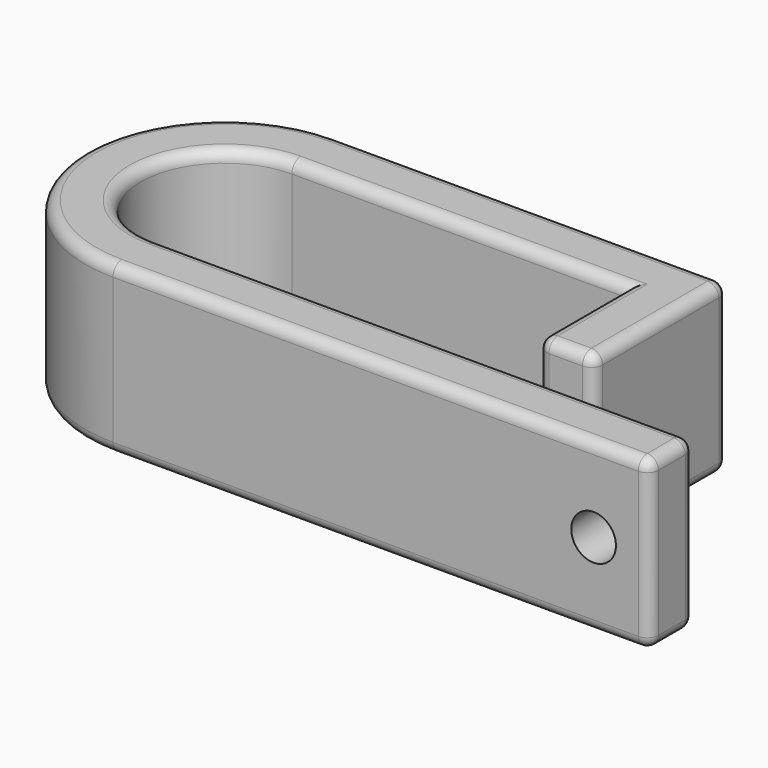
from build123d import *

# Parameters (mm, degrees)
PAD_DEPTH    = 15
SKETCH001_R  = 2
POCKET_DEPTH = 5
CHAMFER_SIZE = 1
FILLET_R     = 1


with BuildPart() as part:
    # Sketch → Pad (new body)
    with BuildSketch(Plane.XY):
        with BuildLine():
            Line((13, -10), (-35, -10))
            ThreePointArc((-35, 15), (-47.5, 2.5), (-35, -10))
            Line((-35, 15), (0, 15))
            Line((0, 15), (0, 0))
            Line((0, 0), (-5, 0))
            Line((-5, 0), (-5, 10))
            Line((-5, 10), (-35, 10))
            ThreePointArc((-35, 10), (-42.499997, 2.5), (-35, -5))
            Line((-35, -5), (13, -5))
            Line((13, -5), (13, -10))
        make_face()
    extrude(amount=PAD_DEPTH)

    # Sketch001 (on Face9 of Pad) → Pocket (cut)
    with BuildSketch(Plane(origin=(0, -5, 0), x_dir=(-1, 0, 0), z_dir=(0, 1, 0))):
        with Locations((-8, 7.5)):
            Circle(SKETCH001_R)
    extrude(amount=-POCKET_DEPTH, mode=Mode.SUBTRACT)

    # Chamfer
    chamfer_edges = [part.edges().sort_by_distance(p)[0] for p in [
        (10, -5, 7.5),
    ]]
    chamfer(chamfer_edges, length=CHAMFER_SIZE)

    # Fillet
    fillet_edges = [part.edges().sort_by_distance(p)[0] for p in [
        (-11, -10, 0),
        (13, -7.5, 0),
        (-11, -5, 0),
        (-20, 10, 0),
        (-5, 5, 0),
        (-2.5, 0, 0),
        (0, 7.5, 0),
        (13, -5, 7.5),
        (-11, -5, 15),
        (-17.5, 15, 0),
        (0, 15, 7.5),
        (-17.5, 15, 15),
        (-47.5, 2.5, 0),
        (-42.499997, 2.5, 0),
        (-47.5, 2.5, 15),
        (-20, 10, 15),
        (-42.499997, 2.5, 15),
        (-5, 5, 15),
        (-2.5, 0, 15),
        (0, 7.5, 15),
        (13, -7.5, 15),
        (-11, -10, 15),
        (-5, 0, 7.5),
        (0, 0, 7.5),
        (13, -10, 7.5),
    ]]
    fillet(fillet_edges, radius=FILLET_R)


solid = part.part
